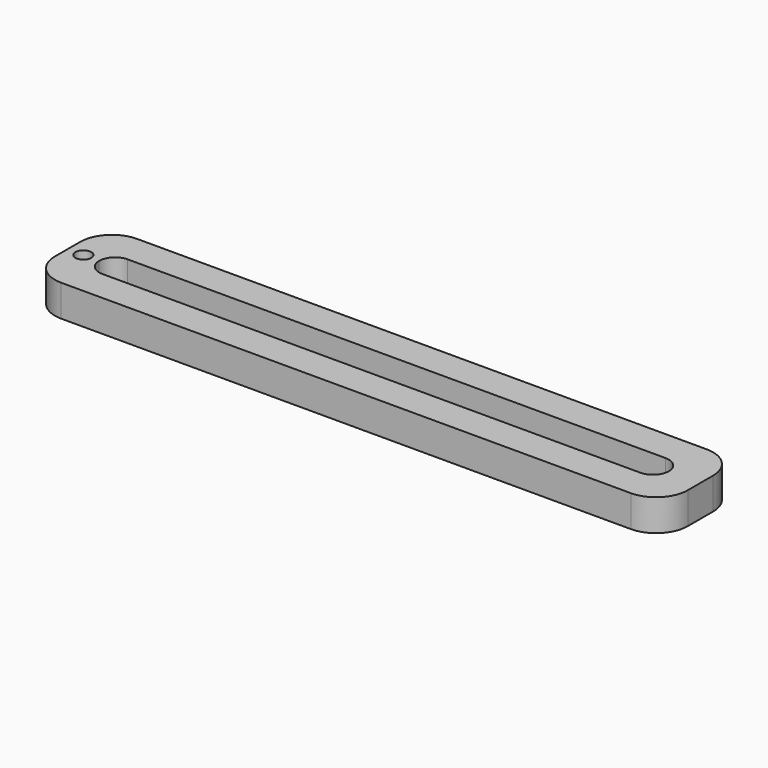
from build123d import *

# Parameters (mm, degrees)
F1_DEPTH = 2.5
F3_DEPTH = 5.001
F4_R     = 1.25
F5_DEPTH = 5.001


with BuildPart() as f1:
    # F0 (on Top) → F1 (new body, symmetric)
    with BuildSketch(Plane.XY):
        with BuildLine():
            ThreePointArc((50, 2.5), (48.535534, 6.035534), (45, 7.5))
            Line((45, 7.5), (-45, 7.5))
            ThreePointArc((-45, 7.5), (-48.535534, 6.035534), (-50, 2.5))
            Line((-50, 2.5), (-50, -2.5))
            ThreePointArc((-50, -2.5), (-48.535534, -6.035534), (-45, -7.5))
            Line((-45, -7.5), (45, -7.5))
            ThreePointArc((45, -7.5), (48.535534, -6.035534), (50, -2.5))
            Line((50, -2.5), (50, 2.5))
        make_face()
    extrude(amount=F1_DEPTH, both=True)

    # F2 (on face) → F3 (cut, through all)
    with BuildSketch(Plane.XY.offset(2.5)):
        with BuildLine():
            Line((42.5, 2.5), (-42.5, 2.5))
            ThreePointArc((-42.5, 2.5), (-44.267767, 1.767767), (-45, 0))
            ThreePointArc((-45, 0), (-44.267767, -1.767767), (-42.5, -2.5))
            Line((-42.5, -2.5), (42.5, -2.5))
            ThreePointArc((42.5, -2.5), (44.267767, -1.767767), (45, 0))
            ThreePointArc((45, 0), (44.267767, 1.767767), (42.5, 2.5))
        make_face()
    extrude(amount=-F3_DEPTH, mode=Mode.SUBTRACT)

    # F4 (on face) → F5 (cut, through all)
    with BuildSketch(Plane.XY.offset(2.5)):
        with Locations((-47.5, 0)):
            Circle(F4_R)
    extrude(amount=-F5_DEPTH, mode=Mode.SUBTRACT)


solid = f1.part
